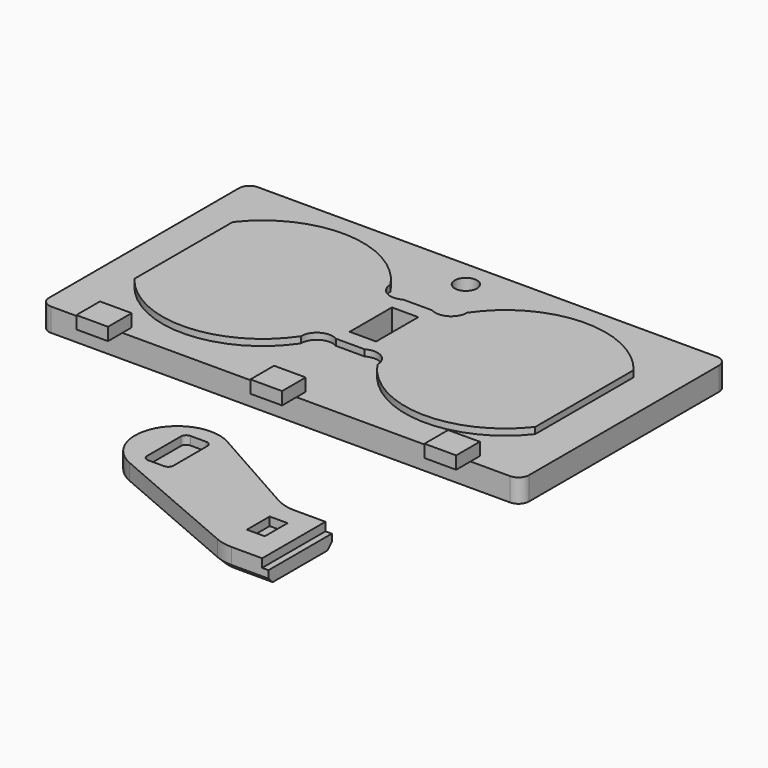
from build123d import *

# Parameters (mm, degrees)
BINDER003_R             = 1.05
PAD_DEPTH               = 2.2
PAD001_DEPTH            = 0.6
BINDER002_W             = 2.8
BINDER002_H             = 3
PAD002_DEPTH            = 1.2
BINDER_W                = 5
BINDER_H                = 2.5
POCKET_DEPTH            = 1.201
POCKET_DEPTH_BACK       = 2.201
BODY_PLACEMENT_ANGLE    = 180
PAD003_DEPTH            = 2
SKETCH003_W             = 1.7
SKETCH003_H             = 2.7
SKETCH003_W_2           = 1.2
SKETCH003_H_2           = 7.5
POCKET001_DEPTH         = 0.8
CHAMFER_SIZE            = 0.5
BODY001_PLACEMENT_ANGLE = 180


with BuildPart() as cover:
    # Binder003 → Pad (new body)
    with BuildSketch(Plane(origin=(22.75, -12.219744, 0), x_dir=(0, 1, 0), z_dir=(0, 0, 1))):
        with BuildLine():
            Line((12.219744, -21.75), (12.219744, 21.75))
            ThreePointArc((12.219744, 21.75), (11.926851, 22.457107), (11.219744, 22.75))
            Line((11.219744, 22.75), (-11.280256, 22.75))
            ThreePointArc((-11.280256, 22.75), (-11.987363, 22.457107), (-12.280256, 21.75))
            Line((-12.280256, 21.75), (-12.280256, -21.75))
            ThreePointArc((-12.280256, -21.75), (-11.987363, -22.457107), (-11.280256, -22.75))
            Line((-11.280256, -22.75), (11.219744, -22.75))
            ThreePointArc((11.219744, -22.75), (11.926851, -22.457107), (12.219744, -21.75))
        make_face()
        with Locations((-9.730256, 0)):
            Circle(BINDER003_R, mode=Mode.SUBTRACT)
    extrude(amount=PAD_DEPTH)

    # Binder001 → Pad001 (join)
    with BuildSketch(Plane(origin=(22.75, -12.25, 0), x_dir=(0, 1, 0), z_dir=(0, 0, 1))):
        with BuildLine():
            ThreePointArc((-5.830952, 19), (-9.494685, 11.182269), (-5.316508, 3.626961))
            ThreePointArc((-5.316508, 3.626961), (-4, 2.883156), (-4, 1.371059))
            Line((-4, 1.371059), (-4, -1.371059))
            ThreePointArc((-4, -1.371059), (-4, -2.883156), (-5.316508, -3.626961))
            ThreePointArc((-5.316508, -3.626961), (-9.494685, -11.182269), (-5.830952, -19))
            Line((-5.830952, -19), (5.830952, -19))
            ThreePointArc((5.830952, -19), (9.494685, -11.182269), (5.316508, -3.626961))
            ThreePointArc((5.316508, -3.626961), (4, -2.883156), (4, -1.371059))
            Line((4, -1.371059), (4, 1.371059))
            ThreePointArc((4, 1.371059), (4, 2.883156), (5.316508, 3.626961))
            ThreePointArc((5.316508, 3.626961), (9.494685, 11.182269), (5.830952, 19))
            Line((5.830952, 19), (-5.830952, 19))
        make_face()
    extrude(amount=-PAD001_DEPTH)

    # Binder002 → Pad002 (join)
    with BuildSketch(Plane(origin=(39.25, 0.3, 0), x_dir=(0, 1, 0), z_dir=(0, 0, 1))):
        Rectangle(BINDER002_W, BINDER002_H)
        with Locations((0, 16.5)):
            Rectangle(BINDER002_W, BINDER002_H)
        with Locations((0, 33)):
            Rectangle(BINDER002_W, BINDER002_H)
    extrude(amount=-PAD002_DEPTH)

    # Sketch001 → Groove (revolve, cut)
    with BuildSketch(Plane(origin=(22.75, 21.95, 0), x_dir=(1, 0, 0), z_dir=(0, -1, 0))):
        Polygon((0, 0), (0, 2.2), (1.75, 2.2), (1.75, 1.1), (1.05, 0.4), (1.05, 0), align=None)
    revolve(axis=Axis((22.75, 21.95, 0), (0, 0, 1)), mode=Mode.SUBTRACT)

    # Binder → Pocket (cut, two sides)
    with BuildSketch(Plane(origin=(22.75, -12.25, 0), x_dir=(0, 1, 0), z_dir=(0, 0, 1))) as pocket_sk:
        Rectangle(BINDER_W, BINDER_H)
    extrude(amount=-POCKET_DEPTH, mode=Mode.SUBTRACT)
    extrude(pocket_sk.sketch, amount=POCKET_DEPTH_BACK, mode=Mode.SUBTRACT)


with BuildPart() as cover_1:
    # Body placement: moved
    add(cover.part.rotate(Axis((0, 0, 0), (1, 0, 0)), BODY_PLACEMENT_ANGLE))


with BuildPart() as cap:
    # Sketch002 → Pad003 (new body)
    with BuildSketch(Plane.XY):
        with BuildLine():
            ThreePointArc((21.165636, 15.922845), (19.166003, 10.473779), (24.713116, 8.764864))
            Line((33.536884, 13.735136), (24.713116, 8.764864))
            ThreePointArc((35.5, 14.25), (34.485245, 14.119144), (33.536884, 13.735136))
            Line((39, 14.25), (35.5, 14.25))
            Line((39, 21.75), (39, 14.25))
            Line((39, 21.75), (35.5, 21.75))
            ThreePointArc((35.5, 21.75), (34.691106, 21.667357), (33.915636, 21.422845))
            Line((33.915636, 21.422845), (21.165636, 15.922845))
        make_face()
    extrude(amount=PAD003_DEPTH)

    # Sketch003 → Pocket001 (cut)
    with BuildSketch(Plane.XY):
        with BuildLine():
            ThreePointArc((22, 14.75), (21.646447, 14.603553), (21.5, 14.25))
            Line((21.5, 10.25), (21.5, 14.25))
            ThreePointArc((21.5, 10.25), (21.646447, 9.896447), (22, 9.75))
            Line((23.5, 9.75), (22, 9.75))
            ThreePointArc((23.5, 9.75), (23.853553, 9.896447), (24, 10.25))
            Line((24, 14.25), (24, 10.25))
            ThreePointArc((24, 14.25), (23.853553, 14.603553), (23.5, 14.75))
            Line((22, 14.75), (23.5, 14.75))
        make_face()
        with Locations((35.5, 17.52)):
            Rectangle(SKETCH003_W, SKETCH003_H)
        with Locations((39, 18)):
            Rectangle(SKETCH003_W_2, SKETCH003_H_2)
    extrude(amount=POCKET001_DEPTH, mode=Mode.SUBTRACT)

    # Chamfer
    chamfer_edges = [cap.edges().sort_by_distance(p)[0] for p in [
        (37.25, 21.75, 2),
    ]]
    chamfer(chamfer_edges, length=CHAMFER_SIZE)


with BuildPart() as cap_1:
    # Body001 placement: moved
    add(cap.part.rotate(Axis((0, 0, 0), (1, 0, 0)), BODY001_PLACEMENT_ANGLE))


solid = Compound([cover_1.part, cap_1.part])
